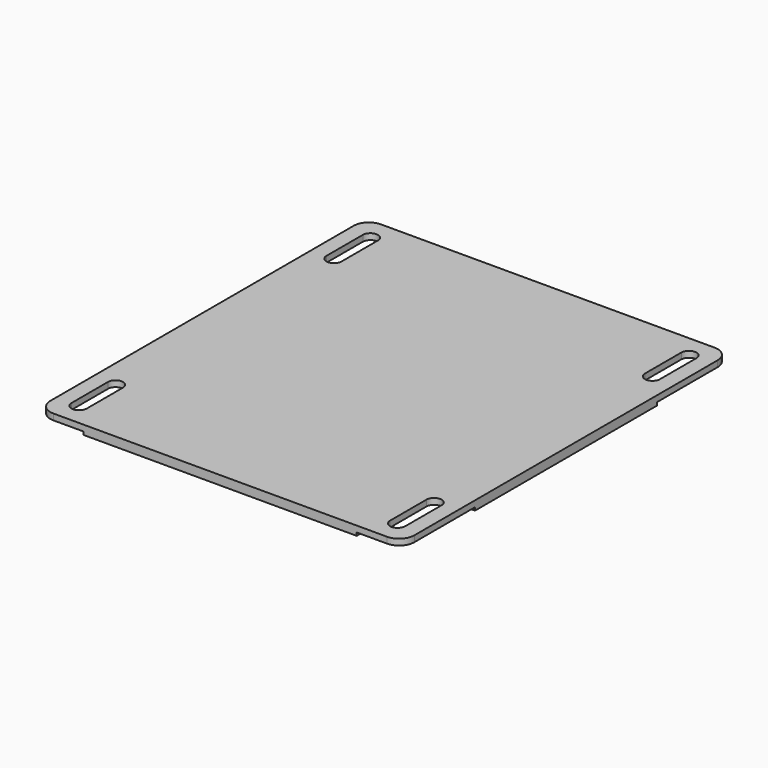
from build123d import *

# Parameters (mm, degrees)
SKETCH_W        = 120
SKETCH_H        = 135
PAD_DEPTH       = 3
POCKET_DEPTH    = 5
FILLET_R        = 5
SKETCH002_W     = 15
SKETCH002_H     = 30
POCKET001_DEPTH = 1
FILLET001_R     = 5


with BuildPart() as part:
    # Sketch → Pad (new body)
    with BuildSketch(Plane.XY):
        with Locations((60, 67.5)):
            Rectangle(SKETCH_W, SKETCH_H)
    extrude(amount=PAD_DEPTH)

    # Sketch001 → Pocket (cut)
    with BuildSketch(Plane.XY):
        with BuildLine():
            ThreePointArc((10, 22.5), (7.5, 25), (5, 22.5))
            Line((5, 22.5), (5, 7.5))
            ThreePointArc((5, 7.5), (7.5, 5), (10, 7.5))
            Line((10, 22.5), (10, 7.5))
        make_face()
        with BuildLine():
            ThreePointArc((115, 22.5), (112.5, 25), (110, 22.5))
            Line((110, 22.5), (110, 7.5))
            ThreePointArc((110, 7.5), (112.5, 5), (115, 7.5))
            Line((115, 22.5), (115, 7.5))
        make_face()
        with BuildLine():
            ThreePointArc((10, 127.5), (7.5, 130), (5, 127.5))
            Line((5, 127.5), (5, 112.5))
            ThreePointArc((5, 112.5), (7.5, 110), (10, 112.5))
            Line((10, 127.5), (10, 112.5))
        make_face()
        with BuildLine():
            ThreePointArc((115, 127.5), (112.5, 130), (110, 127.5))
            Line((110, 127.5), (110, 112.5))
            ThreePointArc((110, 112.5), (112.5, 110), (115, 112.5))
            Line((115, 127.5), (115, 112.5))
        make_face()
    extrude(amount=POCKET_DEPTH, mode=Mode.SUBTRACT)

    # Fillet
    fillet_edges = [part.edges().sort_by_distance(p)[0] for p in [
        (120, 0, 1.5),
        (120, 135, 1.5),
        (0, 135, 1.5),
        (0, 0, 1.5),
    ]]
    fillet(fillet_edges, radius=FILLET_R)

    # Sketch002 → Pocket001 (cut)
    with BuildSketch(Plane.XY):
        with Locations((7.5, 15)):
            Rectangle(SKETCH002_W, SKETCH002_H)
        with Locations((7.5, 120)):
            Rectangle(SKETCH002_W, SKETCH002_H)
        with Locations((112.5, 120)):
            Rectangle(SKETCH002_W, SKETCH002_H)
        with Locations((112.5, 15)):
            Rectangle(SKETCH002_W, SKETCH002_H)
    extrude(amount=POCKET001_DEPTH, mode=Mode.SUBTRACT)

    # Fillet001
    fillet001_edges = [part.edges().sort_by_distance(p)[0] for p in [
        (15, 105, 0.5),
        (105, 105, 0.5),
        (105, 30, 0.5),
        (15, 30, 0.5),
    ]]
    fillet(fillet001_edges, radius=FILLET001_R)


solid = part.part
